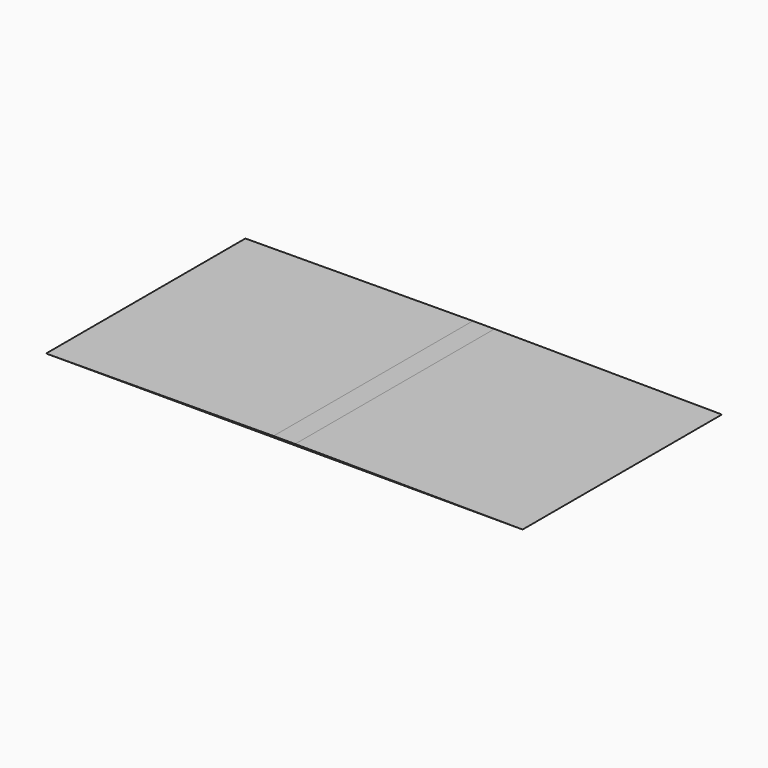
from build123d import *

# Parameters (mm, degrees)
F1_DEPTH = 292.1
F0_W     = 25.4
F0_H     = 1.5875
F2_DEPTH = 292.1


with BuildPart() as f1:
    # F0 (on Front) → F1 (new body)
    with BuildSketch(Plane.XZ):
        Polygon((223.868351, 20.058831), (-42.831649, 18.471331), (223.868351, 18.471331), align=None)
        Polygon((515.968351, 18.471331), (249.268351, 20.058831), (249.268351, 18.471331), align=None)
    extrude(amount=F1_DEPTH)

    # F0 (on Front) → F2 (join)
    with BuildSketch(Plane.XZ):
        with Locations((236.568351, 19.265081)):
            Rectangle(F0_W, F0_H)
    extrude(amount=F2_DEPTH)


solid = f1.part
